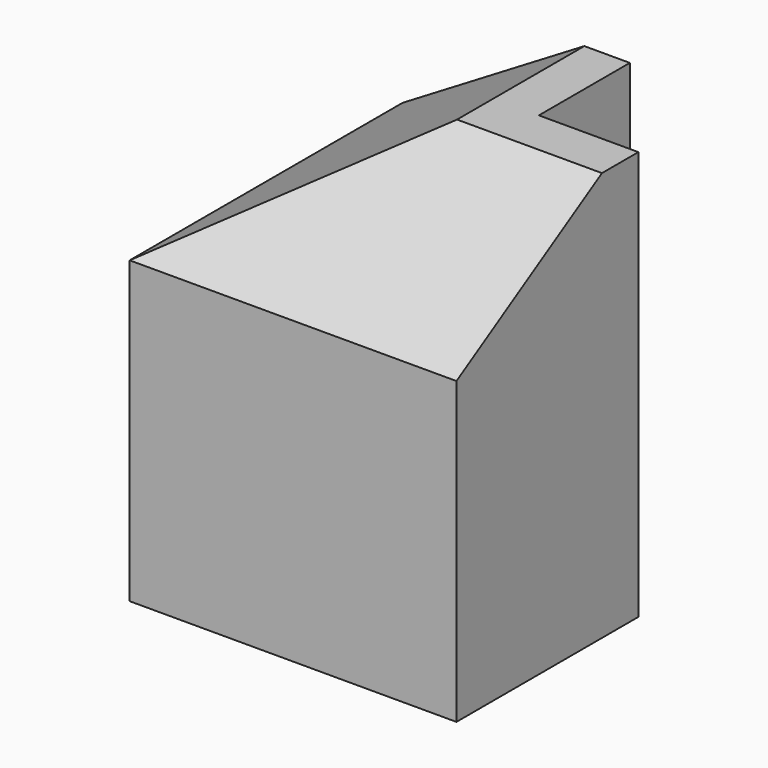
from build123d import *

# Parameters (mm, degrees)
PAD014_DEPTH    = 28.8
POCKET011_DEPTH = 24
POCKET012_DEPTH = 24
SKETCH112_W     = 1
SKETCH112_H     = 16
POCKET028_DEPTH = 30
PAD141_DEPTH    = 23
PAD142_DEPTH    = 24
POCKET056_DEPTH = 24
POCKET057_DEPTH = 23


with BuildPart() as part:
    # Sketch025 (on Face52 of Binder010) → Pad014 (new body)
    with BuildSketch(Plane.XY.offset(-28.8)):
        Polygon((0, 0), (0, 8), (-16, 8), (-16, -16), (8, -16), (8, 0), align=None)
    extrude(amount=PAD014_DEPTH)

    # Sketch026 (on Face5 of Pad014) → Pocket011 (cut)
    with BuildSketch(Plane.YZ.offset(8)):
        Polygon((-16, -9.6), (0, 0), (-16, 0), align=None)
    extrude(amount=-POCKET011_DEPTH, mode=Mode.SUBTRACT)

    # Sketch027 (on Face3 of Pocket011) → Pocket012 (cut)
    with BuildSketch(Plane(origin=(0, 8, 0), x_dir=(-1, 0, 0), z_dir=(0, 1, 0))):
        Polygon((16, -9.6), (0, 0), (16, 0), align=None)
    extrude(amount=-POCKET012_DEPTH, mode=Mode.SUBTRACT)

    # Sketch112 (on Face4 of Pocket012) → Pocket028 (cut)
    with BuildSketch(Plane(origin=(0, 0, -28.8), x_dir=(1, 0, 0), z_dir=(0, 0, -1))):
        with Locations((7.5, 8)):
            Rectangle(SKETCH112_W, SKETCH112_H)
    extrude(amount=-POCKET028_DEPTH, mode=Mode.SUBTRACT)

    # Sketch137 (on Face7 of Pocket028) → Pad141 (join)
    with BuildSketch(Plane.YZ.offset(7)):
        Polygon((0, 0), (-3.2, 0), (-16, -7.68), (-16, -10.88), (-3.2, -3.2), (0, -3.2), align=None)
    extrude(amount=-PAD141_DEPTH)

    # Sketch167 → Pad142 (join)
    with BuildSketch(Plane(origin=(0, 8, 0), x_dir=(-1, 0, 0), z_dir=(0, 1, 0))):
        Polygon((0, 0), (0, -3.2), (3.2, -3.2), (16, -10.88), (16, -7.68), (3.2, 0), align=None)
    extrude(amount=-PAD142_DEPTH)

    # Sketch170 (on Face9 of Pad142) → Pocket056 (cut)
    with BuildSketch(Plane(origin=(0, 8, 0), x_dir=(-1, 0, 0), z_dir=(0, 1, 0))):
        Polygon((3.2, 0), (16, -7.68), (16, 0), align=None)
    extrude(amount=-POCKET056_DEPTH, mode=Mode.SUBTRACT)

    # Sketch171 (on Face3 of Pocket056) → Pocket057 (cut)
    with BuildSketch(Plane.YZ.offset(7)):
        Polygon((-3.2, 0), (-16, -7.68), (-16, 0), align=None)
    extrude(amount=-POCKET057_DEPTH, mode=Mode.SUBTRACT)


solid = part.part
